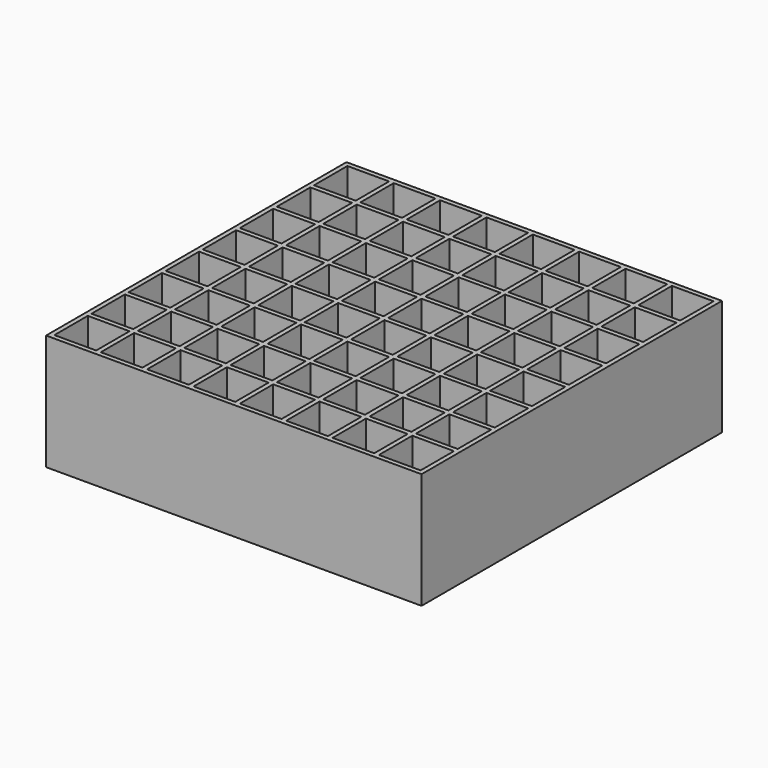
from build123d import *

# Parameters (mm, degrees)
F0_W     = 81
F0_H     = 81
F0_W_2   = 9
F0_H_2   = 9
F1_DEPTH = 25


with BuildPart() as f1:
    # F0 (on Top) → F1 (new body)
    with BuildSketch(Plane.XY):
        Rectangle(F0_W, F0_H)
        with Locations((-35, -35)):
            Rectangle(F0_W_2, F0_H_2, mode=Mode.SUBTRACT)
        with Locations((-25, -35)):
            Rectangle(F0_W_2, F0_H_2, mode=Mode.SUBTRACT)
        with Locations((-35, -25)):
            Rectangle(F0_W_2, F0_H_2, mode=Mode.SUBTRACT)
        with Locations((-25, -25)):
            Rectangle(F0_W_2, F0_H_2, mode=Mode.SUBTRACT)
        with Locations((-15, -35)):
            Rectangle(F0_W_2, F0_H_2, mode=Mode.SUBTRACT)
        with Locations((-5, -35)):
            Rectangle(F0_W_2, F0_H_2, mode=Mode.SUBTRACT)
        with Locations((-15, -25)):
            Rectangle(F0_W_2, F0_H_2, mode=Mode.SUBTRACT)
        with Locations((-5, -25)):
            Rectangle(F0_W_2, F0_H_2, mode=Mode.SUBTRACT)
        with Locations((-35, -15)):
            Rectangle(F0_W_2, F0_H_2, mode=Mode.SUBTRACT)
        with Locations((-25, -15)):
            Rectangle(F0_W_2, F0_H_2, mode=Mode.SUBTRACT)
        with Locations((-35, -5)):
            Rectangle(F0_W_2, F0_H_2, mode=Mode.SUBTRACT)
        with Locations((-25, -5)):
            Rectangle(F0_W_2, F0_H_2, mode=Mode.SUBTRACT)
        with Locations((-15, -15)):
            Rectangle(F0_W_2, F0_H_2, mode=Mode.SUBTRACT)
        with Locations((-5, -15)):
            Rectangle(F0_W_2, F0_H_2, mode=Mode.SUBTRACT)
        with Locations((-15, -5)):
            Rectangle(F0_W_2, F0_H_2, mode=Mode.SUBTRACT)
        with Locations((-5, -5)):
            Rectangle(F0_W_2, F0_H_2, mode=Mode.SUBTRACT)
        with Locations((5, -35)):
            Rectangle(F0_W_2, F0_H_2, mode=Mode.SUBTRACT)
        with Locations((15, -35)):
            Rectangle(F0_W_2, F0_H_2, mode=Mode.SUBTRACT)
        with Locations((5, -25)):
            Rectangle(F0_W_2, F0_H_2, mode=Mode.SUBTRACT)
        with Locations((15, -25)):
            Rectangle(F0_W_2, F0_H_2, mode=Mode.SUBTRACT)
        with Locations((25, -35)):
            Rectangle(F0_W_2, F0_H_2, mode=Mode.SUBTRACT)
        with Locations((35, -35)):
            Rectangle(F0_W_2, F0_H_2, mode=Mode.SUBTRACT)
        with Locations((25, -25)):
            Rectangle(F0_W_2, F0_H_2, mode=Mode.SUBTRACT)
        with Locations((35, -25)):
            Rectangle(F0_W_2, F0_H_2, mode=Mode.SUBTRACT)
        with Locations((5, -15)):
            Rectangle(F0_W_2, F0_H_2, mode=Mode.SUBTRACT)
        with Locations((15, -15)):
            Rectangle(F0_W_2, F0_H_2, mode=Mode.SUBTRACT)
        with Locations((5, -5)):
            Rectangle(F0_W_2, F0_H_2, mode=Mode.SUBTRACT)
        with Locations((15, -5)):
            Rectangle(F0_W_2, F0_H_2, mode=Mode.SUBTRACT)
        with Locations((25, -15)):
            Rectangle(F0_W_2, F0_H_2, mode=Mode.SUBTRACT)
        with Locations((35, -15)):
            Rectangle(F0_W_2, F0_H_2, mode=Mode.SUBTRACT)
        with Locations((25, -5)):
            Rectangle(F0_W_2, F0_H_2, mode=Mode.SUBTRACT)
        with Locations((35, -5)):
            Rectangle(F0_W_2, F0_H_2, mode=Mode.SUBTRACT)
        with Locations((-35, 5)):
            Rectangle(F0_W_2, F0_H_2, mode=Mode.SUBTRACT)
        with Locations((-25, 5)):
            Rectangle(F0_W_2, F0_H_2, mode=Mode.SUBTRACT)
        with Locations((-35, 15)):
            Rectangle(F0_W_2, F0_H_2, mode=Mode.SUBTRACT)
        with Locations((-25, 15)):
            Rectangle(F0_W_2, F0_H_2, mode=Mode.SUBTRACT)
        with Locations((-15, 5)):
            Rectangle(F0_W_2, F0_H_2, mode=Mode.SUBTRACT)
        with Locations((-5, 5)):
            Rectangle(F0_W_2, F0_H_2, mode=Mode.SUBTRACT)
        with Locations((-15, 15)):
            Rectangle(F0_W_2, F0_H_2, mode=Mode.SUBTRACT)
        with Locations((-5, 15)):
            Rectangle(F0_W_2, F0_H_2, mode=Mode.SUBTRACT)
        with Locations((-35, 25)):
            Rectangle(F0_W_2, F0_H_2, mode=Mode.SUBTRACT)
        with Locations((-25, 25)):
            Rectangle(F0_W_2, F0_H_2, mode=Mode.SUBTRACT)
        with Locations((-35, 35)):
            Rectangle(F0_W_2, F0_H_2, mode=Mode.SUBTRACT)
        with Locations((-25, 35)):
            Rectangle(F0_W_2, F0_H_2, mode=Mode.SUBTRACT)
        with Locations((-15, 25)):
            Rectangle(F0_W_2, F0_H_2, mode=Mode.SUBTRACT)
        with Locations((-5, 25)):
            Rectangle(F0_W_2, F0_H_2, mode=Mode.SUBTRACT)
        with Locations((-15, 35)):
            Rectangle(F0_W_2, F0_H_2, mode=Mode.SUBTRACT)
        with Locations((-5, 35)):
            Rectangle(F0_W_2, F0_H_2, mode=Mode.SUBTRACT)
        with Locations((5, 5)):
            Rectangle(F0_W_2, F0_H_2, mode=Mode.SUBTRACT)
        with Locations((15, 5)):
            Rectangle(F0_W_2, F0_H_2, mode=Mode.SUBTRACT)
        with Locations((5, 15)):
            Rectangle(F0_W_2, F0_H_2, mode=Mode.SUBTRACT)
        with Locations((15, 15)):
            Rectangle(F0_W_2, F0_H_2, mode=Mode.SUBTRACT)
        with Locations((25, 5)):
            Rectangle(F0_W_2, F0_H_2, mode=Mode.SUBTRACT)
        with Locations((35, 5)):
            Rectangle(F0_W_2, F0_H_2, mode=Mode.SUBTRACT)
        with Locations((25, 15)):
            Rectangle(F0_W_2, F0_H_2, mode=Mode.SUBTRACT)
        with Locations((35, 15)):
            Rectangle(F0_W_2, F0_H_2, mode=Mode.SUBTRACT)
        with Locations((5, 25)):
            Rectangle(F0_W_2, F0_H_2, mode=Mode.SUBTRACT)
        with Locations((15, 25)):
            Rectangle(F0_W_2, F0_H_2, mode=Mode.SUBTRACT)
        with Locations((5, 35)):
            Rectangle(F0_W_2, F0_H_2, mode=Mode.SUBTRACT)
        with Locations((15, 35)):
            Rectangle(F0_W_2, F0_H_2, mode=Mode.SUBTRACT)
        with Locations((25, 25)):
            Rectangle(F0_W_2, F0_H_2, mode=Mode.SUBTRACT)
        with Locations((35, 25)):
            Rectangle(F0_W_2, F0_H_2, mode=Mode.SUBTRACT)
        with Locations((25, 35)):
            Rectangle(F0_W_2, F0_H_2, mode=Mode.SUBTRACT)
        with Locations((35, 35)):
            Rectangle(F0_W_2, F0_H_2, mode=Mode.SUBTRACT)
    extrude(amount=F1_DEPTH)


solid = f1.part
